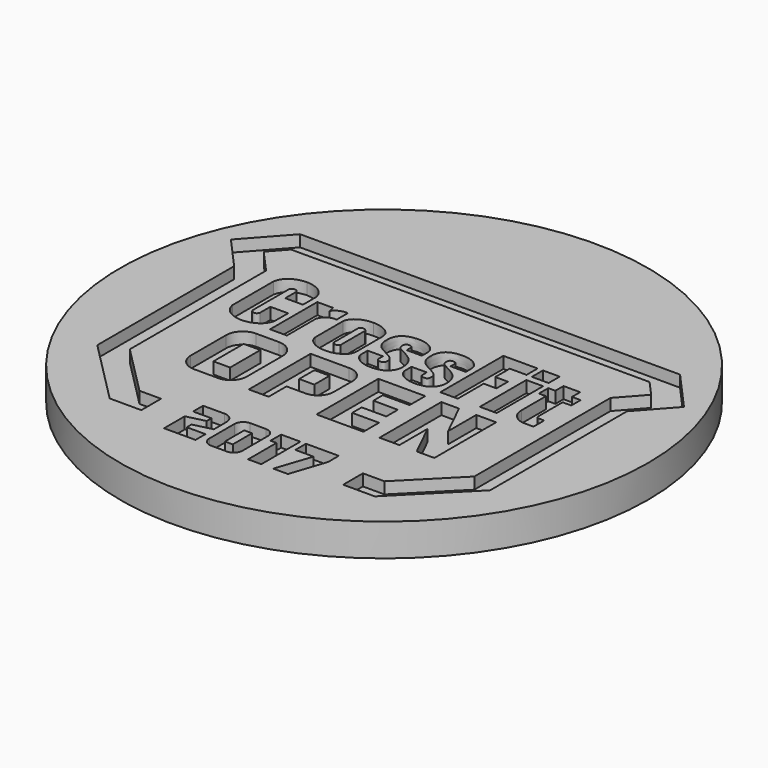
from build123d import *

# Parameters (mm, degrees)
F0_R     = 28.956
F1_DEPTH = 3.556
F2_W     = 30.4023699468
F2_H     = 2.708328606
F2_W_2   = 1.8437616527
F2_H_2   = 6.3712084666
F2_H_3   = 1.5175901353
F2_W_3   = 1.6611122992
F2_H_4   = 2.0968401222
F2_W_4   = 1.8359664828
F2_H_5   = 4.1484234825
F2_W_5   = 0.8592136437
F2_H_6   = 2.6414245367
F3_DEPTH = 1.27


with BuildPart() as f1:
    # F0 (on Top) → F1 (new body)
    with BuildSketch(Plane.XY):
        Circle(F0_R)
    extrude(amount=F1_DEPTH)

    # F2 (on face) → F3 (cut)
    with BuildSketch(Plane.XY.offset(3.556)):
        with Locations((0, 13.1786047998)):
            Rectangle(F2_W, F2_H)
        Polygon((20.8420716974, 14.5327691028), (15.2011849734, 14.5327691028), (15.2011849734, 11.8244404968), (19.6655910583, 11.8244404968), (21.247090707, 10.0590654712), (18.8943144933, 7.4307704384), (18.8943144933, -11.2499324565), (13.4406701729, -16.7418979069), (11.0729235041, -16.7418979069), (11.0729235041, -19.4502265129), (14.5413199249, -19.4502265129), (21.5503721796, -12.3919237413), (21.5503721796, 6.3732514918), (24.849809781, 10.0590654712), align=None)
        Polygon((-15.2011849734, 11.8244404968), (-15.2011849734, 14.5327691028), (-20.8420716974, 14.5327691028), (-24.849809781, 10.0590654712), (-21.5503721796, 6.3732514918), (-21.5503721796, -12.3919237413), (-14.5413199249, -19.4502265129), (-11.0729235041, -19.4502265129), (-11.0729235041, -16.7418979069), (-13.4406701729, -16.7418979069), (-18.8943144933, -11.2499324565), (-18.8943144933, 7.4307704384), (-21.247090707, 10.0590654712), (-19.6655910583, 11.8244404968), align=None)
        with BuildLine():
            ThreePointArc((-15.2091418535, 6.0097032957), (-14.8139919296, 6.2693332665), (-14.4188420058, 6.0097032957))
            Line((-14.4188420058, 6.0097032957), (-14.4188420058, 4.4719388507))
            Line((-14.4188420058, 4.4719388507), (-12.4801692695, 4.4719388507))
            Line((-12.4801692695, 4.4719388507), (-12.4801692695, 6.2930637769))
            add(Edge.make_bspline(
                [(-12.4801692695, 6.2930637769), (-12.5916933403, 6.7707157481), (-12.9251884268, 7.2707731335), (-13.6344023128, 7.7464624472), (-14.2989607428, 7.9362339904), (-14.8139919296, 7.9558056579)],
                knots=[0, 0, 0, 0, 0.3452518733, 0.6338422719, 1, 1, 1, 1], degree=3))
            add(Edge.make_bspline(
                [(-17.1478145898, 6.2930637769), (-17.036290519, 6.7707157481), (-16.7027954325, 7.2707731335), (-15.9935815465, 7.7464624472), (-15.3290231165, 7.9362339904), (-14.8139919296, 7.9558056579)],
                knots=[0, 0, 0, 0, 0.3452518733, 0.6338422719, 1, 1, 1, 1], degree=3))
            Line((-17.1478145898, 6.2930637769), (-17.1478145898, 0.6190669056))
            add(Edge.make_bspline(
                [(-17.1478145898, 0.6190669056), (-17.036290519, 0.1414149345), (-16.7027954325, -0.3586424509), (-15.9935815465, -0.8343317647), (-15.3290231165, -1.0241033079), (-14.8139919296, -1.0436749754)],
                knots=[0, 0, 0, 0, 0.3452518733, 0.6338422719, 1, 1, 1, 1], degree=3))
            add(Edge.make_bspline(
                [(-12.4801692695, 0.6190669056), (-12.5916933403, 0.1414149345), (-12.9251884268, -0.3586424509), (-13.6344023128, -0.8343317647), (-14.2989607428, -1.0241033079), (-14.8139919296, -1.0436749754)],
                knots=[0, 0, 0, 0, 0.3452518733, 0.6338422719, 1, 1, 1, 1], degree=3))
            Line((-12.4801692695, 0.6190669056), (-12.4801692695, 2.4332190197))
            Line((-12.4801692695, 2.4332190197), (-14.4188420058, 2.4332190197))
            Line((-14.4188420058, 2.4332190197), (-14.4188420058, 1.0003426842))
            ThreePointArc((-14.4188420058, 1.0003426842), (-14.8139919296, 0.6797582705), (-15.2091418535, 1.0003426842))
            Line((-15.2091418535, 1.0003426842), (-15.2091418535, 6.0097032957))
        make_face()
        with BuildLine():
            ThreePointArc((-8.498294748, 5.6527445823), (-9.3240459461, 5.52802916), (-9.9700721946, 4.9988136426))
            Line((-9.9700721946, 4.9988136426), (-10.0917066481, 5.6280705877))
            Line((-10.0917066481, 5.6280705877), (-11.8310791474, 5.6280705877))
            Line((-11.8310791474, 5.6280705877), (-11.8310791474, -0.8495571991))
            Line((-11.8310791474, -0.8495571991), (-9.9822352674, -0.8495571991))
            Line((-9.9822352674, -0.8495571991), (-9.9822352674, 3.0987069741))
            ThreePointArc((-9.9822352674, 3.0987069741), (-9.4355214126, 3.8909649876), (-8.498294748, 4.1104529783))
            Line((-8.498294748, 4.1104529783), (-8.498294748, 5.6527445823))
        make_face()
        with BuildLine():
            add(Edge.make_bspline(
                [(-7.8876619975, 4.1982766971), (-7.8356496049, 4.6341372871), (-7.4830251688, 5.0855806361), (-6.6969666534, 5.5265744778), (-6.1764580028, 5.6217318842), (-5.6770178073, 5.6407110794)],
                knots=[0, 0, 0, 0, 0.3397100712, 0.6449265753, 1, 1, 1, 1], degree=3))
            Line((-7.8876619975, 4.1982766971), (-7.8876619975, 0.4633077452))
            add(Edge.make_bspline(
                [(-7.8876619975, 0.4633077452), (-7.8356496049, 0.0274471552), (-7.4830251688, -0.4239961938), (-6.6969666534, -0.8649900355), (-6.1764580028, -0.9601474419), (-5.6770178073, -0.9791266371)],
                knots=[0, 0, 0, 0, 0.3397100712, 0.6449265753, 1, 1, 1, 1], degree=3))
            add(Edge.make_bspline(
                [(-3.4663736171, 0.4633077452), (-3.5183860098, 0.0274471552), (-3.8710104458, -0.4239961938), (-4.6570689612, -0.8649900355), (-5.1775776118, -0.9601474419), (-5.6770178073, -0.9791266371)],
                knots=[0, 0, 0, 0, 0.3397100712, 0.6449265753, 1, 1, 1, 1], degree=3))
            Line((-3.4663736171, 0.4633077452), (-3.4663736171, 4.1982766971))
            add(Edge.make_bspline(
                [(-3.4663736171, 4.1982766971), (-3.5183860098, 4.6341372871), (-3.8710104458, 5.0855806361), (-4.6570689612, 5.5265744778), (-5.1775776118, 5.6217318842), (-5.6770178073, 5.6407110794)],
                knots=[0, 0, 0, 0, 0.3397100712, 0.6449265753, 1, 1, 1, 1], degree=3))
        make_face()
        with BuildLine():
            Line((-6.0537514093, 0.6796154458), (-6.0537514093, 4.0396556988))
            ThreePointArc((-6.0537514093, 4.0396556988), (-5.6770178073, 4.2767262399), (-5.3002842053, 4.0396556988))
            Line((-5.3002842053, 4.0396556988), (-5.3002842053, 0.6796154458))
            ThreePointArc((-5.3002842053, 0.6796154458), (-5.6770178073, 0.4325808427), (-6.0537514093, 0.6796154458))
        make_face(mode=Mode.SUBTRACT)
        with BuildLine():
            add(Edge.make_bspline(
                [(-2.8303159575, 0.3884340668), (-2.8039437057, 0.2035950511), (-2.7084645464, -0.0700189873), (-2.3608920836, -0.4703230086), (-1.9926629718, -0.6996264871), (-1.5028929662, -0.8748491288), (-1.0382407316, -0.9538686812), (-0.6882680471, -0.9546334772), (-0.3368604514, -0.9540527619), (0.2211413136, -0.8513074189), (0.612300795, -0.6901154246), (0.9801185549, -0.3981460143), (1.2267344248, -0.0690546676), (1.3993589582, 0.2977634954), (1.4223729478, 0.7584350911), (1.4049419285, 1.1135593111), (1.3286013981, 1.553696764), (1.1223334914, 1.9521079504), (0.8760135922, 2.2676339155), (0.6015247761, 2.5058684812), (0.2906951276, 2.7053452538), (-0.0001070692, 2.8824823952), (-0.3353974242, 3.0432490404), (-0.5764466432, 3.1792562527), (-0.8154579768, 3.303817088), (-0.9633304165, 3.4276750313), (-1.0959908548, 3.6333141563), (-1.0823984853, 3.8622415727), (-1.0834469924, 4.0754389156), (-0.9485709412, 4.2583690073), (-0.7487440326, 4.3029808765), (-0.5601470729, 4.2949903255), (-0.3773783712, 4.2385764575), (-0.3052749299, 4.1735809243), (-0.2735022713, 4.0681006186)],
                knots=[0, 0, 0, 0, 0.0370250499, 0.0748342879, 0.1100620625, 0.1484988784, 0.1852224027, 0.2162968341, 0.2479903621, 0.2879321478, 0.3230237776, 0.3590762656, 0.3932110531, 0.4269990648, 0.4628119337, 0.4948648069, 0.530192635, 0.5659957163, 0.5996315799, 0.6317213982, 0.6639857771, 0.6953892736, 0.7277821278, 0.7561961656, 0.7835044746, 0.8069782815, 0.8326158776, 0.857980682, 0.8824603672, 0.9067304417, 0.9303429697, 0.953652975, 0.975833924, 1, 1, 1, 1], degree=3))
            Line((-0.2735022713, 4.0681006186), (-0.2735022713, 3.4427449837))
            Line((-0.2735022713, 3.4427449837), (1.3895077923, 3.4427449837))
            Line((1.3895077923, 3.4427449837), (1.3895077923, 4.2547744498))
            add(Edge.make_bspline(
                [(1.3895077923, 4.2547744498), (1.362871865, 4.4414615263), (1.2883734828, 4.7378016949), (0.9605026276, 5.0998324979), (0.5716220009, 5.3815223969), (0.0152610688, 5.5827557819), (-0.3948809767, 5.6297560073), (-0.7047527982, 5.6499225931), (-1.0751777633, 5.6320466323), (-1.6282857111, 5.5504935604), (-2.0336875884, 5.3727640469), (-2.4117723458, 5.0855965451), (-2.6319171142, 4.7457920238), (-2.777638503, 4.3159693257), (-2.7948365878, 3.9652673217), (-2.7867872003, 3.5566089511), (-2.7234512303, 3.1492983197), (-2.4809077804, 2.7167962496), (-2.2560062896, 2.466619706), (-1.9772894721, 2.263975186), (-1.613083499, 2.067015106), (-1.2952433521, 1.9125631017), (-1.0179124703, 1.7567271658), (-0.7490698208, 1.6103729622), (-0.506207899, 1.4077450313), (-0.4071682892, 1.2885965948), (-0.2936071786, 1.0792376552), (-0.3010610885, 0.7910872402), (-0.3213241393, 0.5663172014), (-0.4513056845, 0.4078239751), (-0.6386646385, 0.3709036814), (-0.8427860612, 0.3772912723), (-1.0484772467, 0.4306358217), (-1.1223962588, 0.5223560412), (-1.1560394719, 0.6340462979)],
                knots=[0, 0, 0, 0, 0.0373952344, 0.0734858494, 0.1105806222, 0.1514081281, 0.1855398741, 0.2145930161, 0.246989669, 0.2866513485, 0.3223486125, 0.3583549464, 0.3922575872, 0.4276388924, 0.4592443755, 0.4928782518, 0.5272671439, 0.5643692779, 0.5951310751, 0.6260952205, 0.6604130771, 0.6921960524, 0.7219608284, 0.7518311519, 0.7813056856, 0.8022259164, 0.8274762943, 0.8561110411, 0.8813007038, 0.9041610683, 0.9268832448, 0.9511148768, 0.9744111926, 1, 1, 1, 1], degree=3))
            Line((-1.1560394719, 0.6340462979), (-1.1560394719, 1.2829401795))
            Line((-1.1560394719, 1.2829401795), (-2.8303159575, 1.2829401795))
            Line((-2.8303159575, 1.2829401795), (-2.8303159575, 0.3884340668))
        make_face()
        with BuildLine():
            add(Edge.make_bspline(
                [(1.9797450798, 0.3972758105), (2.0061173315, 0.2124367948), (2.1015964908, -0.0611772436), (2.4491689536, -0.4614812649), (2.8173980654, -0.6907847434), (3.307168071, -0.8660073851), (3.7718203056, -0.9450269375), (4.1217929901, -0.9457917335), (4.4732005858, -0.9452110182), (5.0312023509, -0.8424656752), (5.4223618323, -0.6812736809), (5.7901795921, -0.3893042706), (6.036795462, -0.0602129239), (6.2094199954, 0.3066052391), (6.232433985, 0.7672768348), (6.2150029657, 1.1224010548), (6.1386624353, 1.5625385077), (5.9323945286, 1.9609496941), (5.6860746294, 2.2764756592), (5.4115858133, 2.5147102249), (5.1007561648, 2.7141869975), (4.809953968, 2.8913241389), (4.474663613, 3.0520907841), (4.233614394, 3.1880979964), (3.9946030604, 3.3126588317), (3.8467306207, 3.436516775), (3.7140701824, 3.6421559), (3.7276625519, 3.8710833164), (3.7266140448, 4.0842806593), (3.861490096, 4.267210751), (4.0613170047, 4.3118226202), (4.2499139643, 4.3038320692), (4.4326826661, 4.2474182012), (4.5047861073, 4.182422668), (4.5365587659, 4.0769423623)],
                knots=[0, 0, 0, 0, 0.0370250499, 0.0748342879, 0.1100620625, 0.1484988784, 0.1852224027, 0.2162968341, 0.2479903621, 0.2879321478, 0.3230237776, 0.3590762656, 0.3932110531, 0.4269990648, 0.4628119337, 0.4948648069, 0.530192635, 0.5659957163, 0.5996315799, 0.6317213982, 0.6639857771, 0.6953892736, 0.7277821278, 0.7561961656, 0.7835044746, 0.8069782815, 0.8326158776, 0.857980682, 0.8824603672, 0.9067304417, 0.9303429697, 0.953652975, 0.975833924, 1, 1, 1, 1], degree=3))
            Line((4.5365587659, 4.0769423623), (4.5365587659, 3.4515867274))
            Line((4.5365587659, 3.4515867274), (6.1995688295, 3.4515867274))
            Line((6.1995688295, 3.4515867274), (6.1995688295, 4.2636161935))
            add(Edge.make_bspline(
                [(6.1995688295, 4.2636161935), (6.1729329022, 4.45030327), (6.09843452, 4.7466434386), (5.7705636648, 5.1086742416), (5.3816830381, 5.3903641406), (4.825322106, 5.5915975256), (4.4151800605, 5.638597751), (4.105308239, 5.6587643368), (3.7348832739, 5.640888376), (3.1817753261, 5.5593353041), (2.7763734488, 5.3816057906), (2.3982886914, 5.0944382888), (2.178143923, 4.7546337675), (2.0324225342, 4.3248110694), (2.0152244495, 3.9741090653), (2.0232738369, 3.5654506948), (2.0866098069, 3.1581400634), (2.3291532568, 2.7256379933), (2.5540547477, 2.4754614497), (2.8327715651, 2.2728169297), (3.1969775382, 2.0758568497), (3.5148176851, 1.9214048454), (3.7921485669, 1.7655689095), (4.0609912164, 1.6192147059), (4.3038531382, 1.416586775), (4.402892748, 1.2974383385), (4.5164538586, 1.0880793989), (4.5089999487, 0.7999289839), (4.4887368979, 0.5751589451), (4.3587553528, 0.4166657188), (4.1713963987, 0.3797454251), (3.967274976, 0.386133016), (3.7615837905, 0.4394775654), (3.6876647784, 0.5311977848), (3.6540215653, 0.6428880416)],
                knots=[0, 0, 0, 0, 0.0373952344, 0.0734858494, 0.1105806222, 0.1514081281, 0.1855398741, 0.2145930161, 0.246989669, 0.2866513485, 0.3223486125, 0.3583549464, 0.3922575872, 0.4276388924, 0.4592443755, 0.4928782518, 0.5272671439, 0.5643692779, 0.5951310751, 0.6260952205, 0.6604130771, 0.6921960524, 0.7219608284, 0.7518311519, 0.7813056856, 0.8022259164, 0.8274762943, 0.8561110411, 0.8813007038, 0.9041610683, 0.9268832448, 0.9511148768, 0.9744111926, 1, 1, 1, 1], degree=3))
            Line((3.6540215653, 0.6428880416), (3.6540215653, 1.2917819232))
            Line((3.6540215653, 1.2917819232), (1.9797450798, 1.2917819232))
            Line((1.9797450798, 1.2917819232), (1.9797450798, 0.3972758105))
        make_face()
        Polygon((10.6105204249, 6.2751232445), (10.6105204249, 7.7927133799), (6.8492461505, 7.7927133799), (6.8492461505, -0.854884015), (8.7667587722, -0.854884015), (8.7667587722, 2.7055770889), (10.1574822838, 2.7055770889), (10.1574822838, 4.2872906461), (8.7667587722, 4.2872906461), (8.7667587722, 6.2751232445), align=None)
        with Locations((12.1124403237, 2.3307202183)):
            Rectangle(F2_W_2, F2_H_2)
        with Locations((12.1124403237, 7.0339183122)):
            Rectangle(F2_W_2, F2_H_3)
        with BuildLine():
            Line((16.2016264889, 6.6334225968), (14.3765285406, 6.6334225968))
            Line((14.3765285406, 6.6334225968), (14.3765285406, 5.5163244516))
            Line((14.3765285406, 5.5163244516), (13.5945966262, 5.5163244516))
            Line((13.5945966262, 5.5163244516), (13.5945966262, 4.2304804347))
            Line((13.5945966262, 4.2304804347), (14.3765285406, 4.2304804347))
            Line((14.3765285406, 4.2304804347), (14.3765285406, 0.8540854588))
            ThreePointArc((14.3765285406, 0.8540854588), (14.8770741106, -0.354338445), (16.0854980144, -0.854884015))
            Line((16.0854980144, -0.854884015), (17.0765723828, -0.854884015))
            Line((17.0765723828, -0.854884015), (17.0765723828, 0.6118975844))
            Line((17.0765723828, 0.6118975844), (16.5136363152, 0.6118975844))
            ThreePointArc((16.5136363152, 0.6118975844), (16.2930120512, 0.7032831468), (16.2016264889, 0.9239074107))
            Line((16.2016264889, 0.9239074107), (16.2016264889, 4.2304804347))
            Line((16.2016264889, 4.2304804347), (17.1537883374, 4.2304804347))
            Line((17.1537883374, 4.2304804347), (17.1537883374, 5.5163244516))
            Line((17.1537883374, 5.5163244516), (16.2016264889, 5.5163244516))
            Line((16.2016264889, 5.5163244516), (16.2016264889, 6.6334225968))
        make_face()
        Polygon((9.9929075049, -2.2195314625), (8.0549451523, -2.2195314625), (8.0549451523, -10.6973991598), (10.2406190708, -10.6973991598), (10.2406190708, -6.8355969954), (12.134869583, -10.6973991598), (14.0728319356, -10.6973991598), (14.0728319356, -2.2195314625), (11.887158017, -2.2195314625), (11.887158017, -6.0813336269), align=None)
        Polygon((6.2918351032, -2.2195314625), (1.148215495, -2.2195314625), (1.148215495, -10.6973991598), (6.2918351032, -10.6973991598), (6.2918351032, -8.5553083438), (3.3484606538, -8.5553083438), (3.3484606538, -7.2576974643), (6.0441256501, -7.2576974643), (6.0441256501, -5.6740386746), (3.3484606538, -5.659233158), (3.3484606538, -4.3616222785), (6.2918351032, -4.3616222785), align=None)
        with BuildLine():
            Line((-2.0720108878, -2.2195314625), (-6.28307648, -2.2195314625))
            Line((-6.28307648, -2.2195314625), (-6.28307648, -10.6973991598))
            Line((-6.28307648, -10.6973991598), (-4.1119735688, -10.6973991598))
            Line((-4.1119735688, -10.6973991598), (-4.1119735688, -8.2385173984))
            Line((-4.1119735688, -8.2385173984), (-2.0720108878, -8.2385173984))
            ThreePointArc((-2.0720108878, -8.2385173984), (-0.8289668197, -7.7600961181), (-0.3089004895, -6.5338920205))
            Line((-0.3089004895, -6.5338920205), (-0.3089004895, -3.9241568404))
            ThreePointArc((-0.3089004895, -3.9241568404), (-0.8289668197, -2.6979527428), (-2.0720108878, -2.2195314625))
        make_face()
        with Locations((-3.2959884265, -5.4402171329)):
            Rectangle(F2_W_3, F2_H_4, mode=Mode.SUBTRACT)
        with BuildLine():
            ThreePointArc((-12.3009653762, -2.2195314625), (-13.5702499026, -2.7657857878), (-14.0932183713, -4.0448405081))
            Line((-14.0932183713, -4.0448405081), (-14.0932183713, -8.9475232046))
            ThreePointArc((-14.0932183713, -8.9475232046), (-13.5533866968, -10.1873844568), (-12.3009653762, -10.6973991598))
            Line((-12.3009653762, -10.6973991598), (-9.7364410758, -10.6973991598))
            ThreePointArc((-9.7364410758, -10.6973991598), (-8.443681983, -10.2156752838), (-7.900474593, -8.9475232046))
            Line((-7.900474593, -8.9475232046), (-7.900474593, -4.0448405081))
            ThreePointArc((-7.900474593, -4.0448405081), (-8.4419792148, -2.7535092189), (-9.7364410758, -2.2195314625))
            Line((-9.7364410758, -2.2195314625), (-12.3009653762, -2.2195314625))
        make_face()
        with Locations((-10.9895607457, -6.4509226824)):
            Rectangle(F2_W_4, F2_H_5, mode=Mode.SUBTRACT)
        with BuildLine():
            ThreePointArc((-3.9980014447, -16.5996085636), (-4.3188053633, -15.8251193924), (-5.0932945345, -15.5043154738))
            Line((-5.0932945345, -15.5043154738), (-7.4532657057, -15.5043154738))
            Line((-7.4532657057, -15.5043154738), (-7.4532657057, -16.8733258668))
            Line((-7.4532657057, -16.8733258668), (-5.4378226526, -16.8733258668))
            Line((-5.4378226526, -16.8733258668), (-5.4378226526, -17.5226714457))
            Line((-5.4378226526, -17.5226714457), (-7.4532657057, -18.0188127658))
            Line((-7.4532657057, -18.0188127658), (-7.4532657057, -20.862694544))
            Line((-7.4532657057, -20.862694544), (-3.9980014447, -20.862694544))
            Line((-3.9980014447, -20.862694544), (-3.9980014447, -19.493684151))
            Line((-3.9980014447, -19.493684151), (-6.0480448617, -19.493684151))
            Line((-6.0480448617, -19.493684151), (-6.0480448617, -18.8443385721))
            Line((-6.0480448617, -18.8443385721), (-3.9980014447, -18.3396796855))
            Line((-3.9980014447, -18.3396796855), (-3.9980014447, -16.5996085636))
        make_face()
        with BuildLine():
            Line((-0.556260686, -15.5043154738), (-2.2857946936, -15.5043154738))
            ThreePointArc((-2.2857946936, -15.5043154738), (-2.9607040326, -15.7838720754), (-3.2402606342, -16.4587814144))
            Line((-3.2402606342, -16.4587814144), (-3.2402606342, -19.9082286034))
            ThreePointArc((-3.2402606342, -19.9082286034), (-2.9607040326, -20.5831379424), (-2.2857946936, -20.862694544))
            Line((-2.2857946936, -20.862694544), (-0.556260686, -20.862694544))
            ThreePointArc((-0.556260686, -20.862694544), (0.118648653, -20.5831379424), (0.3982052546, -19.9082286034))
            Line((0.3982052546, -19.9082286034), (0.3982052546, -16.4587814144))
            ThreePointArc((0.3982052546, -16.4587814144), (0.118648653, -15.7838720754), (-0.556260686, -15.5043154738))
        make_face()
        with Locations((-1.418305725, -18.1940381352)):
            Rectangle(F2_W_5, F2_H_6, mode=Mode.SUBTRACT)
        Polygon((3.2210330352, -15.5043154738), (1.1077687483, -15.5043154738), (1.1077687483, -16.9665754709), (1.7710558711, -16.9665754709), (1.7710558711, -20.862694544), (3.2210330352, -20.862694544), align=None)
        Polygon((7.4321370445, -15.5043154738), (3.8380449511, -15.5043154738), (3.8380449511, -16.9665754709), (5.8279069014, -16.9665754709), (4.5321824834, -20.862694544), (6.1364126265, -20.862694544), (7.4321370445, -16.9665754709), align=None)
    extrude(amount=-F3_DEPTH, mode=Mode.SUBTRACT)


solid = f1.part
